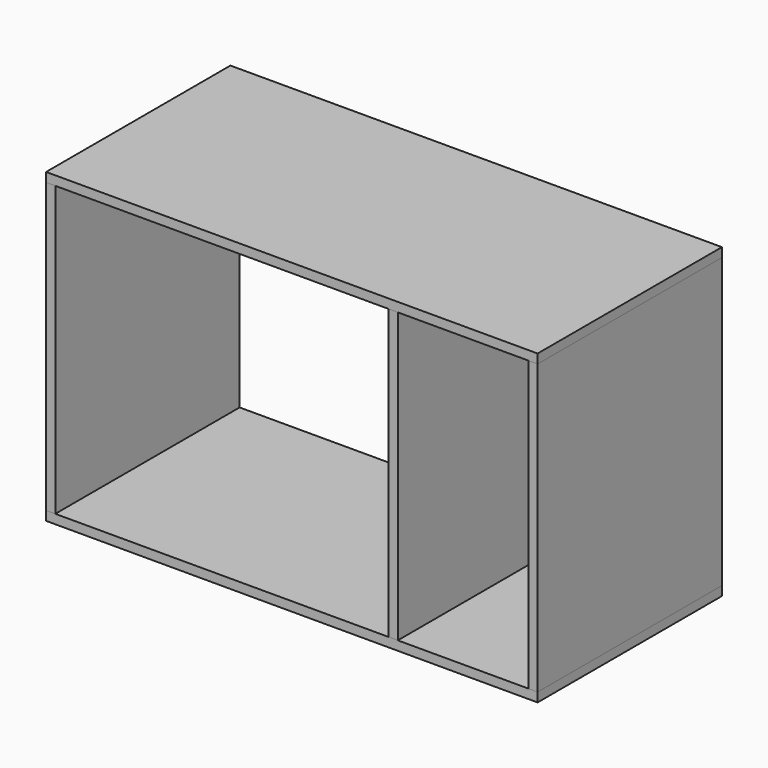
from build123d import *

# Parameters (mm, degrees)
F0_W      = 640
F0_H      = 300
F1_DEPTH  = 12
F2_W      = 300
F2_H      = 376
F3_DEPTH  = 12
F5_D      = 4
F5_DEPTH  = 12
F5_TIP    = 1.2017212381
F9_W      = 12
F9_H      = 376
F10_DEPTH = 150


with BuildPart() as f1:
    # F0 (on Top) → F1 (new body)
    with BuildSketch(Plane.XY):
        Rectangle(F0_W, F0_H)
    extrude(amount=F1_DEPTH)


with BuildPart() as f3:
    # F2 (on face) → F3 (new body)
    with BuildSketch(Plane.YZ.offset(320)):
        with Locations((0, 200)):
            Rectangle(F2_W, F2_H)
    extrude(amount=-F3_DEPTH)

    # F5
    with Locations(Plane(origin=(0, 0, 12), x_dir=(1, 0, 0), z_dir=(0, 0, -1))):
        with Locations((314, 121.0207406604), (314, 0), (314, -128.9792593396)):
            Hole(F5_D / 2, depth=F5_DEPTH)
            with Locations((0, 0, -(F5_DEPTH + F5_TIP / 2))):  # 118° drill point
                Cone(0, F5_D / 2, F5_TIP, mode=Mode.SUBTRACT)


with BuildPart() as f7_1:
    # F7: instance of F3
    add(f3.part.mirror(Plane.YZ))


with BuildPart() as f8_1:
    # F8: instance of F1
    add(f1.part.mirror(Plane(origin=(314, -0.014037233, 200), x_dir=(1, 0, 0), z_dir=(0, 0, -1))))


with BuildPart() as f10:
    # F9 (on Front) → F10 (new body, symmetric)
    with BuildSketch(Plane.XZ):
        with Locations((132, 200)):
            Rectangle(F9_W, F9_H)
    extrude(amount=F10_DEPTH, both=True)


solid = Compound([f1.part, f3.part, f7_1.part, f8_1.part, f10.part])
